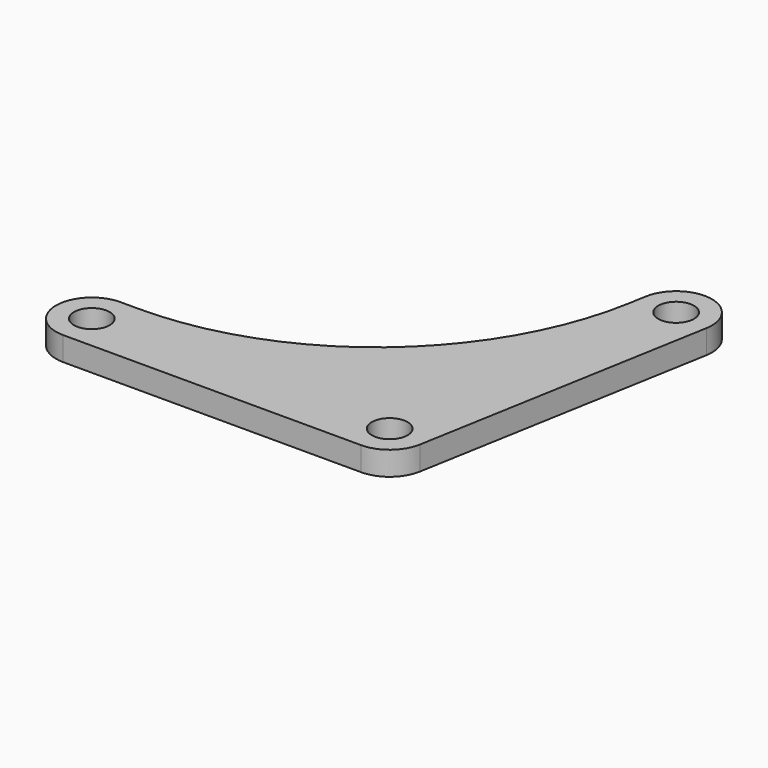
from build123d import *

# Parameters (mm, degrees)
F0_R     = 1.5
F1_DEPTH = 2


with BuildPart() as f1:
    # F0 (on Top) → F1 (new body)
    with BuildSketch(Plane.XY):
        with BuildLine():
            ThreePointArc((0, -3), (1.928363, -2.298133), (2.954423, -0.520945))
            Line((2.954423, -0.520945), (7.295628, 24.099249))
            ThreePointArc((7.295628, 24.099249), (4.862149, 27.574617), (1.386781, 25.141138))
            Line((1.386781, 25.141138), (1.125404, 23.658796))
            ThreePointArc((1.125404, 23.658796), (-7.425099, 8.848889), (-23.49479, 3))
            Line((-23.49479, 3), (-25, 3))
            ThreePointArc((-25, 3), (-28, 0), (-25, -3))
            Line((-25, -3), (0, -3))
        make_face()
        with Locations((-25, 0)):
            Circle(F0_R, mode=Mode.SUBTRACT)
        Circle(F0_R, mode=Mode.SUBTRACT)
        with Locations((4.341204, 24.620194)):
            Circle(F0_R, mode=Mode.SUBTRACT)
    extrude(amount=F1_DEPTH)


solid = f1.part
